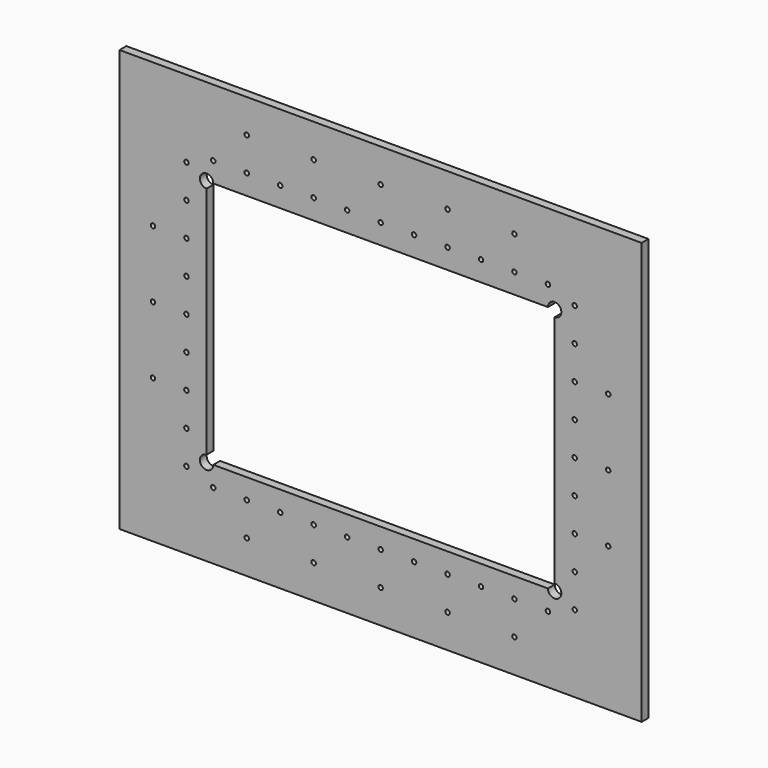
from build123d import *

# Parameters (mm, degrees)
F0_W     = 780
F0_H     = 630
F0_W_2   = 520
F0_H_2   = 370
F1_DEPTH = 12.7
F4_D     = 6.7056
F5_R     = 10
F6_DEPTH = 12.701


with BuildPart() as f1:
    # F0 (on Front) → F1 (new body)
    with BuildSketch(Plane.XZ):
        Rectangle(F0_W, F0_H)
        Rectangle(F0_W_2, F0_H_2, mode=Mode.SUBTRACT)
    extrude(amount=-F1_DEPTH)

    # F4 (through all)
    with Locations(Plane.XZ):
        with Locations((-250, 215), (-200, 215), (-150, 215), (-100, 215), (-50, 215), (0, 215), (50, 215), (100, 215), (150, 215), (200, 215), (250, 215), (200, 265), (100, 265), (0, 265), (-100, 265), (-200, 265), (-290, 200), (-290, 150), (-290, 100), (-290, 50), (-290, 0), (-340, 0), (-340, 100), (-290, -50), (-290, -100), (-290, -150), (100, -265), (0, -265), (200, -265), (-100, -265), (-200, -265), (100, -215), (-100, -215), (-200, -215), (250, -215), (150, -215), (-50, -215), (-150, -215), (0, -215), (50, -215), (-250, -215), (200, -215), (-290, -200), (290, 50), (290, 0), (290, 200), (290, 150), (290, 100), (290, -200), (290, -150), (290, -100), (290, -50), (-340, -100), (340, 100), (340, 0), (340, -100), (340, 0), (340, -100)):
            Hole(F4_D / 2)

    # F5 (on face) → F6 (cut, through all)
    with BuildSketch(Plane.XZ):
        with Locations((-260, 185)):
            Circle(F5_R)
        with Locations((-260, -185)):
            Circle(F5_R)
        with Locations((260, -185)):
            Circle(F5_R)
        with Locations((260, 185)):
            Circle(F5_R)
    extrude(amount=-F6_DEPTH, mode=Mode.SUBTRACT)


solid = f1.part
